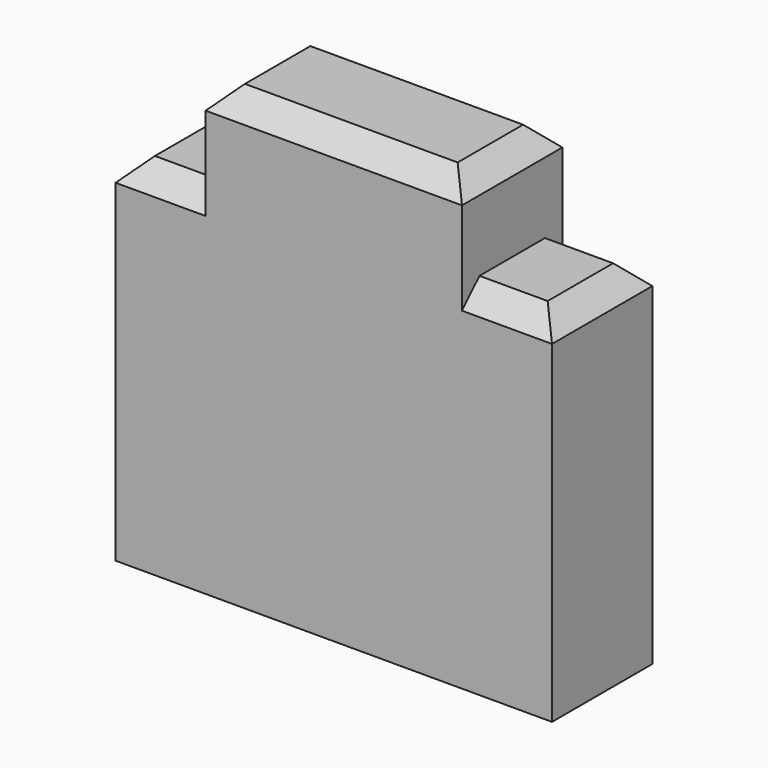
from build123d import *

# Parameters (mm, degrees)
SKETCH008_W     = 4
SKETCH008_H     = 1.15
PAD005_DEPTH    = 4.1
SKETCH009_W     = 0.825
SKETCH009_H     = 0.85
POCKET002_DEPTH = 5
CHAMFER005_SIZE = 0.2


with BuildPart() as part:
    # Sketch008 → Pad005 (new body)
    with BuildSketch(Plane.XY):
        Rectangle(SKETCH008_W, SKETCH008_H)
    extrude(amount=PAD005_DEPTH)

    # Sketch009 (on Face1 of Pad005) → Pocket002 (cut)
    with BuildSketch(Plane(origin=(0, 0.575, 0), x_dir=(-1, 0, 0), z_dir=(0, 1, 0))):
        with Locations((-1.5875, 3.675)):
            Rectangle(SKETCH009_W, SKETCH009_H)
        with Locations((1.5875, 3.675)):
            Rectangle(SKETCH009_W, SKETCH009_H)
    extrude(amount=-POCKET002_DEPTH, mode=Mode.SUBTRACT)

    # Chamfer005
    chamfer005_edges = [part.edges().sort_by_distance(p)[0] for p in [
        (0, 0.575, 4.1),
        (0, -0.575, 4.1),
        (1.5875, 0.575, 3.25),
        (-1.5875, 0.575, 3.25),
        (-1.5875, -0.575, 3.25),
        (1.5875, -0.575, 3.25),
        (2, 0, 3.25),
        (-2, 0, 3.25),
        (1.175, 0, 4.1),
        (-1.175, 0, 4.1),
    ]]
    chamfer(chamfer005_edges, length=CHAMFER005_SIZE)


with BuildPart() as part_1:
    # Body037 placement: moved
    add(part.part.moved(Location((0, 18, 0))))


solid = part_1.part
